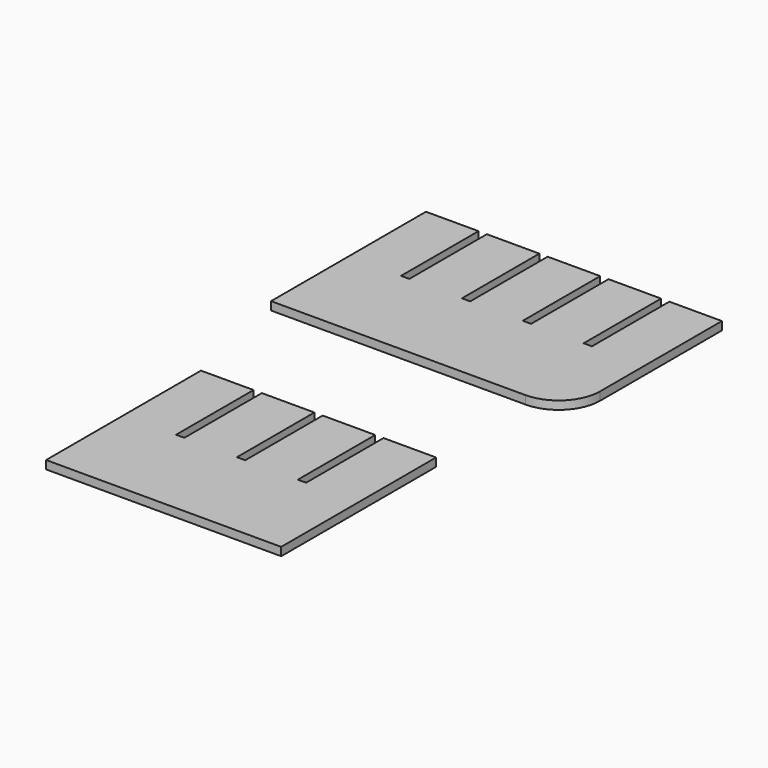
from build123d import *

# Parameters (mm, degrees)
F1_DEPTH = 3


with BuildPart() as f1:
    # F0 (on Top) → F1 (new body)
    with BuildSketch(Plane.XY):
        with BuildLine():
            Line((-233.533201, 177.881735), (-252.533201, 177.881735))
            Line((-252.533201, 177.881735), (-252.533201, 107.881735))
            Line((-252.533201, 107.881735), (-160.533201, 107.881735))
            ThreePointArc((-160.533201, 107.881735), (-149.926599, 112.275133), (-145.533201, 122.881735))
            Line((-145.533201, 122.881735), (-145.533201, 177.881735))
            Line((-145.533201, 177.881735), (-164.533201, 177.881735))
            Line((-164.533201, 177.881735), (-164.533201, 142.881735))
            Line((-164.533201, 142.881735), (-167.533201, 142.881735))
            Line((-167.533201, 142.881735), (-167.533201, 177.881735))
            Line((-167.533201, 177.881735), (-186.533201, 177.881735))
            Line((-186.533201, 177.881735), (-186.533201, 142.881735))
            Line((-186.533201, 142.881735), (-189.533201, 142.881735))
            Line((-189.533201, 142.881735), (-189.533201, 177.881735))
            Line((-189.533201, 177.881735), (-208.533201, 177.881735))
            Line((-208.533201, 177.881735), (-208.533201, 142.881735))
            Line((-208.533201, 142.881735), (-211.533201, 142.881735))
            Line((-211.533201, 142.881735), (-211.533201, 177.881735))
            Line((-211.533201, 177.881735), (-230.533201, 177.881735))
            Line((-230.533201, 177.881735), (-230.533201, 142.881735))
            Line((-230.533201, 142.881735), (-233.533201, 142.881735))
            Line((-233.533201, 142.881735), (-233.533201, 177.881735))
        make_face()
        Polygon((-222.448504, 62.355831), (-241.448504, 62.355831), (-241.448504, -7.644169), (-156.448504, -7.644169), (-156.448504, 62.355831), (-175.448504, 62.355831), (-175.448504, 27.355831), (-178.448504, 27.355831), (-178.448504, 62.355831), (-197.448504, 62.355831), (-197.448504, 27.355831), (-200.448504, 27.355831), (-200.448504, 62.355831), (-219.448504, 62.355831), (-219.448504, 27.355831), (-222.448504, 27.355831), align=None)
    extrude(amount=F1_DEPTH)


solid = f1.part
